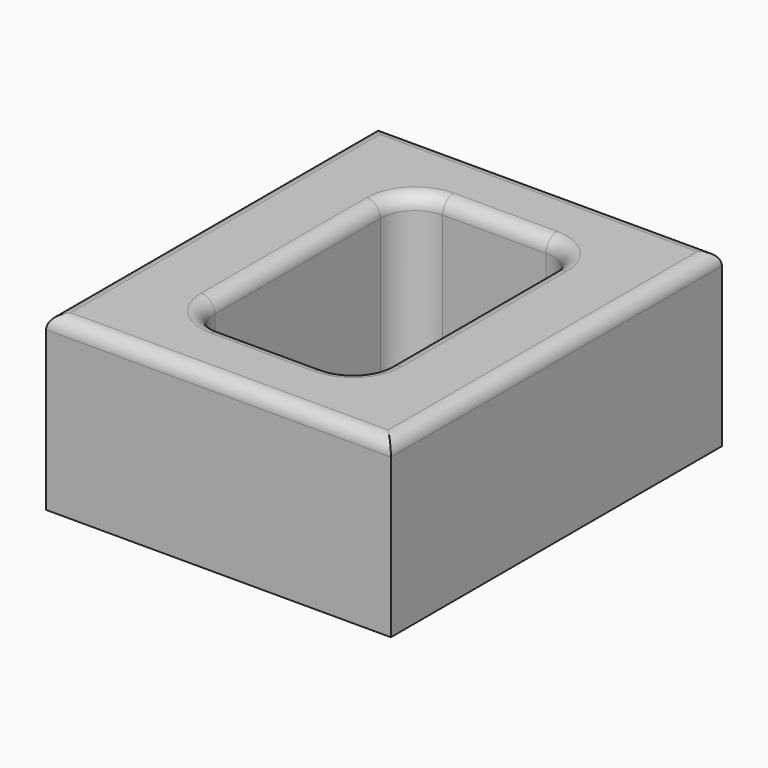
from build123d import *

# Parameters (mm, degrees)
F0_W     = 50
F0_H     = 60
F1_DEPTH = 12.5
F2_W     = 25
F2_H     = 40
F3_DEPTH = 25.001
F4_R     = 5
F5_R     = 2


with BuildPart() as f1:
    # F0 (on Top) → F1 (new body, symmetric)
    with BuildSketch(Plane.XY):
        Rectangle(F0_W, F0_H)
    extrude(amount=F1_DEPTH, both=True)

    # F2 (on face) → F3 (cut, through all)
    with BuildSketch(Plane.XY.offset(12.5)):
        Rectangle(F2_W, F2_H)
    extrude(amount=-F3_DEPTH, mode=Mode.SUBTRACT)

    # F4
    f4_edges = [f1.edges().sort_by_distance(p)[0] for p in [
        (12.5, -20, 0),
        (-12.5, -20, 0),
        (-12.5, 20, 0),
        (12.5, 20, 0),
    ]]
    fillet(f4_edges, radius=F4_R)

    # F5
    f5_edges = [f1.edges().sort_by_distance(p)[0] for p in [
        (0, -20, 12.5),
        (-11.035534, -18.535534, 12.5),
        (11.035534, -18.535534, 12.5),
        (-12.5, 0, 12.5),
        (12.5, 0, 12.5),
        (-11.035534, 18.535534, 12.5),
        (11.035534, 18.535534, 12.5),
        (0, 20, 12.5),
        (25, 0, 12.5),
        (0, -30, 12.5),
        (0, 30, 12.5),
        (-25, 0, 12.5),
    ]]
    fillet(f5_edges, radius=F5_R)


solid = f1.part
